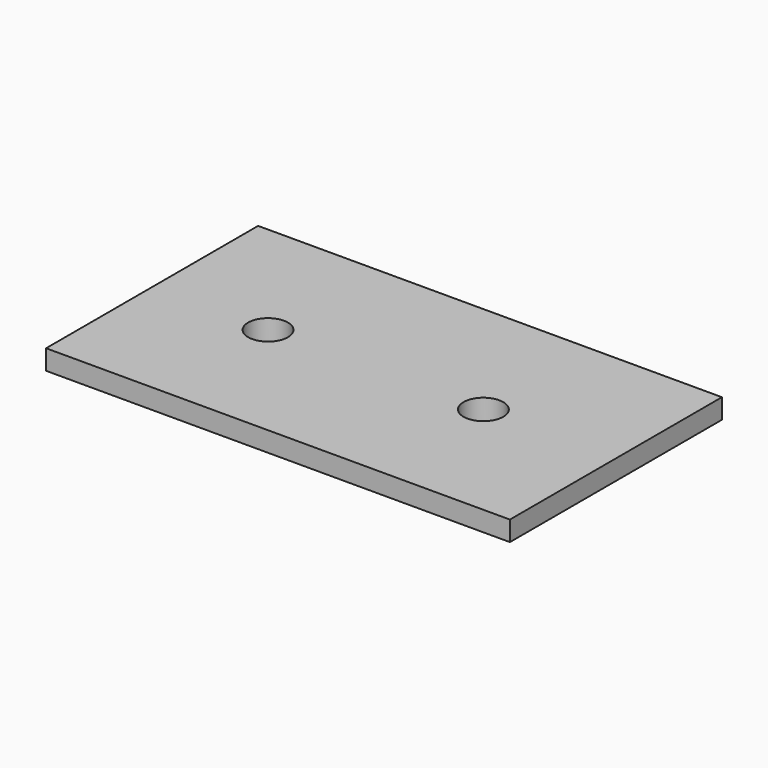
from build123d import *

# Parameters (mm, degrees)
F0_W     = 70
F0_H     = 40
F0_W_2   = 25
F0_H_2   = 10
F0_W_3   = 10
F0_H_3   = 30
F1_DEPTH = 3
F2_DEPTH = 2
F3_R     = 3
F4_R     = 3
F5_DEPTH = 25


with BuildPart() as f1:
    # F0 (on Top) → F1 (new body)
    with BuildSketch(Plane.XY):
        Rectangle(F0_W, F0_H)
        with Locations((-17.5, 0)):
            Rectangle(F0_W_2, F0_H_2, mode=Mode.SUBTRACT)
        with Locations((15, 0)):
            Rectangle(F0_W_3, F0_H_3, mode=Mode.SUBTRACT)
        with Locations((-17.5, 0)):
            Rectangle(F0_W_2, F0_H_2)
        with Locations((15, 0)):
            Rectangle(F0_W_3, F0_H_3)
    extrude(amount=F1_DEPTH)

    # F0 (on Top) → F2 (join)
    with BuildSketch(Plane.XY):
        with Locations((-17.5, 0)):
            Rectangle(F0_W_2, F0_H_2)
        with Locations((15, 0)):
            Rectangle(F0_W_3, F0_H_3)
    extrude(amount=-F2_DEPTH)

    # F3 (on face) + F4 (on face) → F5 (cut)
    with BuildSketch(Plane(origin=(0, 0, -2), x_dir=(1, 0, 0), z_dir=(0, 0, -1))):
        with Locations((-17.5, 0)):
            Circle(F3_R)
    with BuildSketch(Plane(origin=(0, 0, -2), x_dir=(1, 0, 0), z_dir=(0, 0, -1))):
        with Locations((15, 0)):
            Circle(F4_R)
    extrude(amount=-F5_DEPTH, mode=Mode.SUBTRACT)


solid = f1.part
